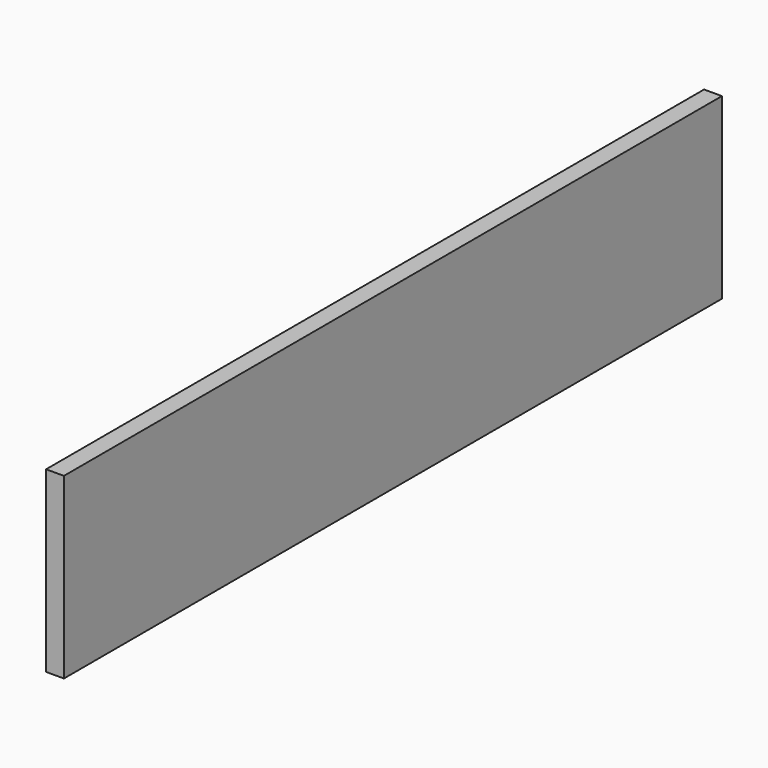
from build123d import *

# Parameters (mm, degrees)
PAD_DEPTH = 10


with BuildPart() as part:
    # Sketch → Pad (new body)
    with BuildSketch(Plane.YZ):
        Polygon((0, 0), (0, 100), (461, 100), (461, 0), (230.5, 0), align=None)
    extrude(amount=-PAD_DEPTH)


solid = part.part
